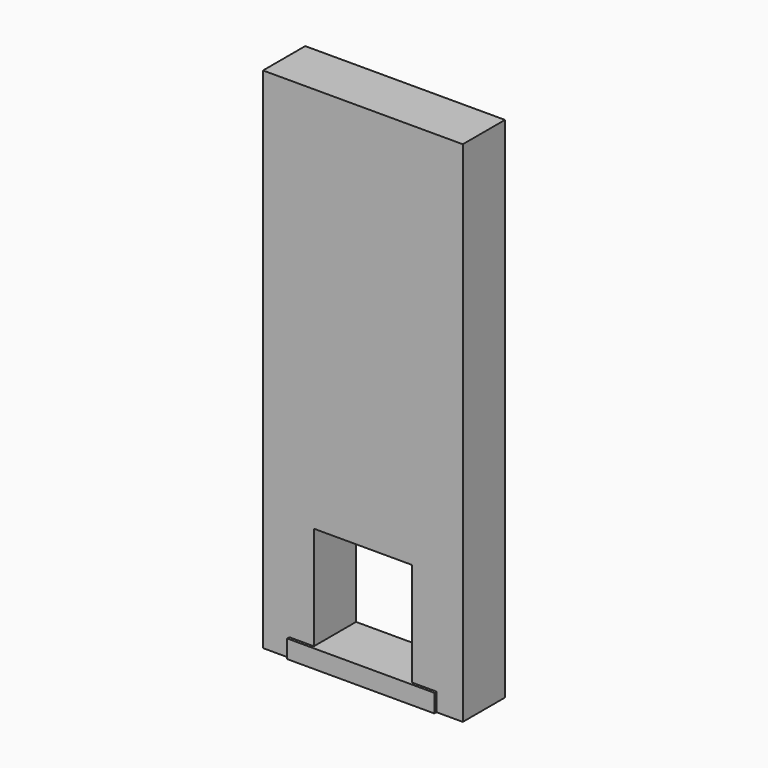
from build123d import *

# Parameters (mm, degrees)
F0_W     = 1100
F0_H     = 2800
F4_DEPTH = 290.51879
F1_W     = 810
F1_H     = 100
F2_DEPTH = 15
F3_W     = 540
F3_H     = 570
F5_DEPTH = 300


with BuildPart() as f4:
    # F0 (on Front) → F4 (new body)
    with BuildSketch(Plane.XZ):
        with Locations((0, 1400)):
            Rectangle(F0_W, F0_H)
    extrude(amount=-F4_DEPTH)

    # F1 (on face) → F2 (join)
    with BuildSketch(Plane.XZ):
        with Locations((0, 50)):
            Rectangle(F1_W, F1_H)
    extrude(amount=F2_DEPTH)

    # F3 (on face) → F5 (cut)
    with BuildSketch(Plane.XZ):
        with Locations((0, 385)):
            Rectangle(F3_W, F3_H)
    extrude(amount=-F5_DEPTH, mode=Mode.SUBTRACT)


solid = f4.part
